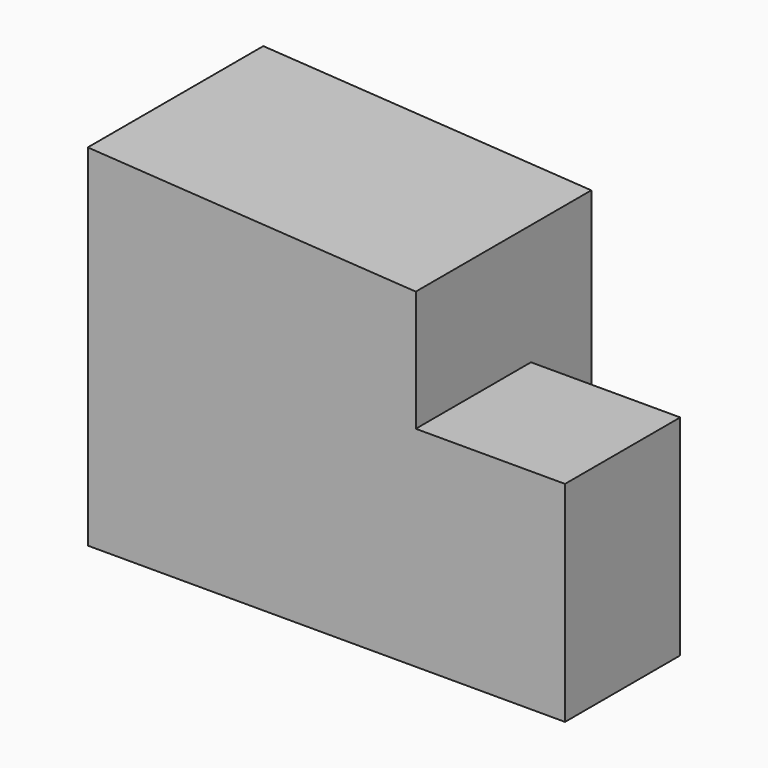
from build123d import *

# Parameters (mm, degrees)
F1_DEPTH = 88.727178
F2_W     = 156.776615
F2_H     = 58.232762
F3_DEPTH = 84.741905


with BuildPart() as f1:
    # F0 (on Front) → F1 (new body)
    with BuildSketch(Plane.XZ):
        Polygon((42.224228, -37.394986), (42.224228, 96.17231), (-90.422675, 104.383394), (-90.422675, 87.380074), (-90.422675, -37.394986), align=None)
    extrude(amount=F1_DEPTH)

    # F2 (on face) → F3 (join)
    with BuildSketch(Plane(origin=(0, 0, -37.394986), x_dir=(1, 0, 0), z_dir=(0, 0, -1))):
        with Locations((24.196234, 59.610797)):
            Rectangle(F2_W, F2_H)
    extrude(amount=-F3_DEPTH)


solid = f1.part
